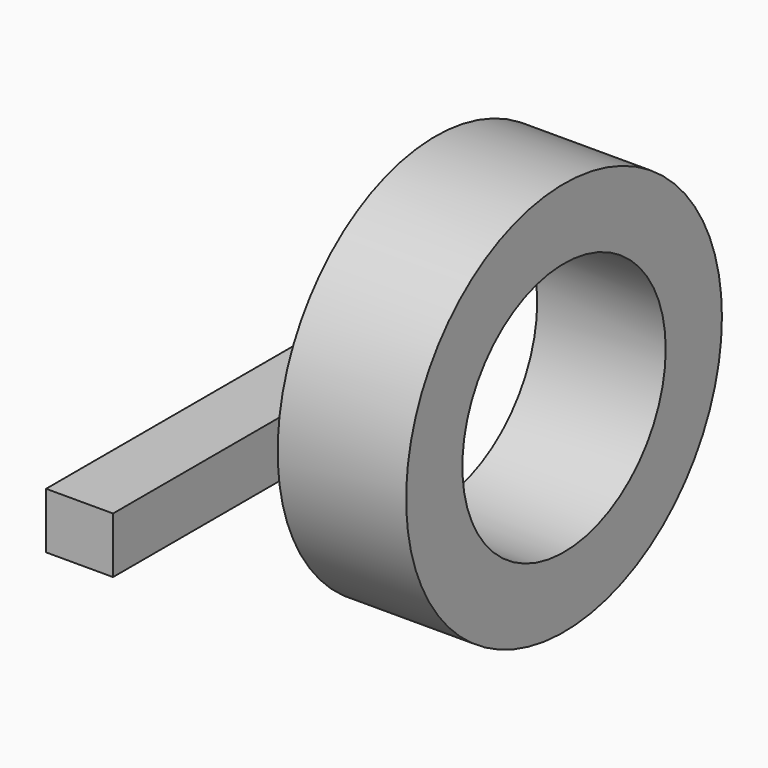
from build123d import *

# Parameters (mm, degrees)
F0_R        = 51.505643
F0_R_2      = 33.167838
F1_DEPTH    = 25.4
F1_FACE_R   = 51.505643
F1_FACE_R_2 = 33.167838
F2_DEPTH    = 8.128
F3_W        = 17.472986
F3_H        = 14.613089
F4_DEPTH    = 93.218


with BuildPart() as f1:
    # F0 (on Right) → F1 (new body)
    with BuildSketch(Plane.YZ):
        Circle(F0_R)
        Circle(F0_R_2, mode=Mode.SUBTRACT)
    extrude(amount=F1_DEPTH)

    # F1_face (on face) → F2 (join)
    with BuildSketch(Plane(origin=(0, 0, 0), x_dir=(0, 1, 0), z_dir=(-1, 0, 0))):
        Circle(F1_FACE_R)
        Circle(F1_FACE_R_2, mode=Mode.SUBTRACT)
    extrude(amount=F2_DEPTH)


with BuildPart() as f4:
    # F3 (on Front) → F4 (new body)
    with BuildSketch(Plane.XZ):
        with Locations((-26.451938, -7.714074)):
            Rectangle(F3_W, F3_H)
    extrude(amount=F4_DEPTH)


solid = Compound([f1.part, f4.part])
